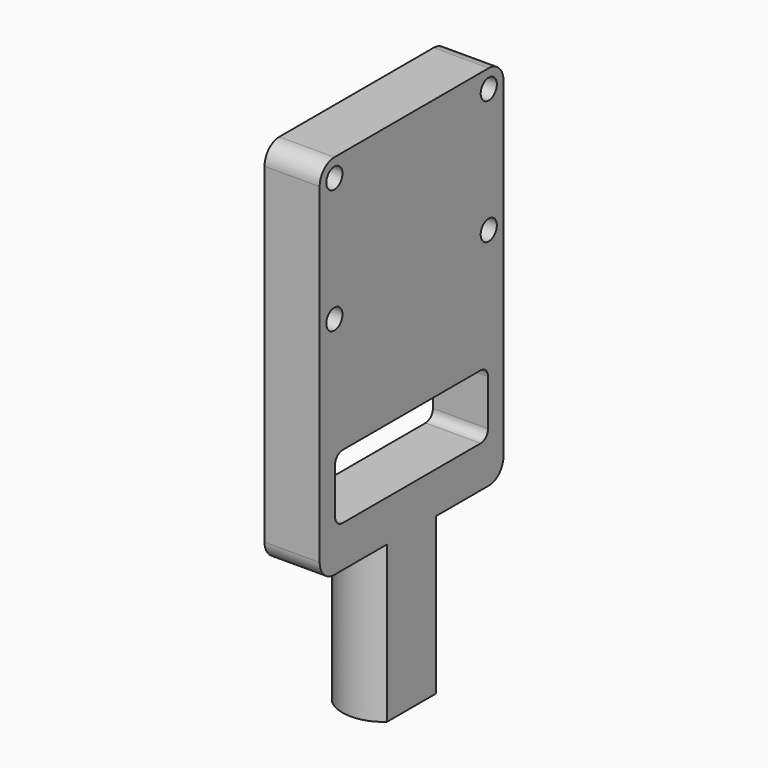
from build123d import *

# Parameters (mm, degrees)
PAD_DEPTH            = 17
POCKET_DEPTH         = 7
PAD001_DEPTH         = 3
PAD001_DEPTH_BACK    = 3
SKETCH003_R          = 1.1
POCKET001_DEPTH      = 5
POCKET001_DEPTH_BACK = -5
POCKET002_DEPTH      = 5
POCKET002_DEPTH_BACK = -5


with BuildPart() as part:
    # Sketch001 → Pad (new body)
    with BuildSketch(Plane.XY):
        with BuildLine():
            Line((-3, 3.354102), (-3, -3.354102))
            ThreePointArc((-3, -3.354102), (0, -4.5), (3, -3.354102))
            Line((3, 3.354102), (3, -3.354102))
            ThreePointArc((3, 3.354102), (0, 4.5), (-3, 3.354102))
        make_face()
    extrude(amount=PAD_DEPTH)

    # Sketch → Pocket (cut)
    with BuildSketch(Plane.XY):
        with BuildLine():
            Line((1.5, 2), (1.5, -2))
            ThreePointArc((-1.5, -2), (0, -2.5), (1.5, -2))
            Line((-1.5, 2), (-1.5, -2))
            ThreePointArc((1.5, 2), (0, 2.5), (-1.5, 2))
        make_face()
    extrude(amount=POCKET_DEPTH, mode=Mode.SUBTRACT)

    # Sketch002 → Pad001 (join, two sides)
    with BuildSketch(Plane.YZ) as pad001_sk:
        with BuildLine():
            Line((-10.5, 17), (10.5, 17))
            ThreePointArc((10.5, 17), (11.914214, 17.585786), (12.5, 19))
            Line((12.5, 55), (12.5, 19))
            ThreePointArc((12.5, 55), (11.914214, 56.414214), (10.5, 57))
            Line((-10.5, 57), (10.5, 57))
            ThreePointArc((-10.5, 57), (-11.914214, 56.414214), (-12.5, 55))
            Line((-12.5, 55), (-12.5, 19))
            ThreePointArc((-12.5, 19), (-11.914214, 17.585786), (-10.5, 17))
        make_face()
    extrude(amount=PAD001_DEPTH)
    extrude(pad001_sk.sketch, amount=-PAD001_DEPTH_BACK)

    # Sketch003 → Pocket001 (cut, two sides)
    with BuildSketch(Plane.YZ) as pocket001_sk:
        with Locations((-10.5, 55)):
            Circle(SKETCH003_R)
        with Locations((10.5, 55)):
            Circle(SKETCH003_R)
        with Locations((10.5, 41.5)):
            Circle(SKETCH003_R)
        with Locations((-10.5, 41.5)):
            Circle(SKETCH003_R)
    extrude(amount=-POCKET001_DEPTH, mode=Mode.SUBTRACT)
    extrude(pocket001_sk.sketch, amount=-POCKET001_DEPTH_BACK, mode=Mode.SUBTRACT)

    # Sketch004 → Pocket002 (cut, two sides)
    with BuildSketch(Plane.YZ) as pocket002_sk:
        with BuildLine():
            Line((-9.4, 28.5), (9.4, 28.5))
            ThreePointArc((10.4, 27.5), (10.107107, 28.207107), (9.4, 28.5))
            Line((10.4, 27.5), (10.4, 22.5))
            ThreePointArc((9.4, 21.5), (10.107107, 21.792893), (10.4, 22.5))
            Line((9.4, 21.5), (-9.4, 21.5))
            ThreePointArc((-10.4, 22.5), (-10.107107, 21.792893), (-9.4, 21.5))
            Line((-10.4, 27.5), (-10.4, 22.5))
            ThreePointArc((-9.4, 28.5), (-10.107107, 28.207107), (-10.4, 27.5))
        make_face()
    extrude(amount=-POCKET002_DEPTH, mode=Mode.SUBTRACT)
    extrude(pocket002_sk.sketch, amount=-POCKET002_DEPTH_BACK, mode=Mode.SUBTRACT)


solid = part.part
